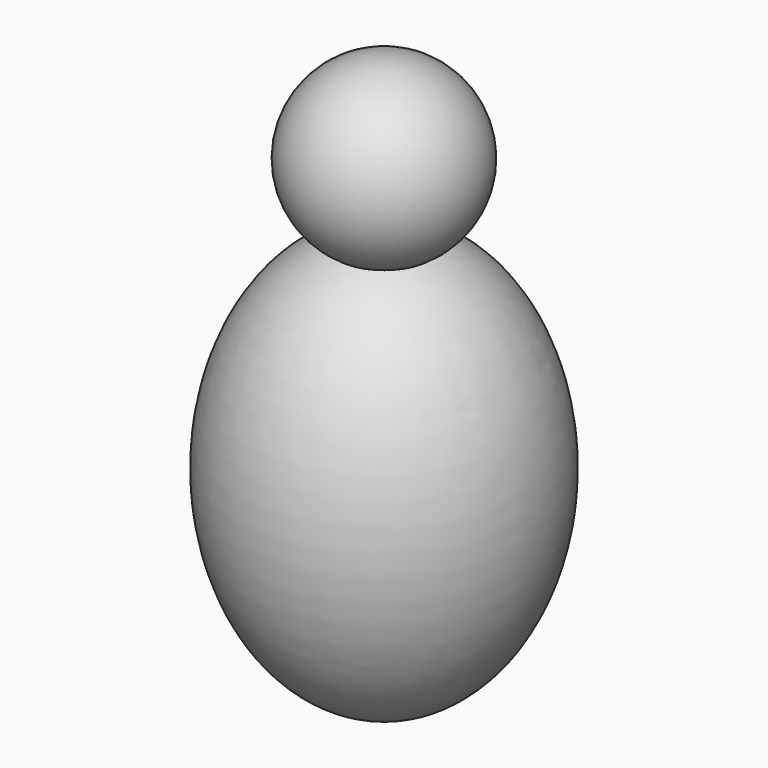
from build123d import *


with BuildPart() as f1:
    # F0 (on Front) → F1 (revolve)
    with BuildSketch(Plane.XZ):
        with BuildLine():
            Line((0, 36.1817493667), (0, 70.5716893445))
            ThreePointArc((0, 70.5716893445), (-17.1949699889, 53.3767193556), (0, 36.1817493667))
        make_face()
    revolve(axis=Axis((0, 0, 53.3767193556), (0, 0, -1)))

    # F2 (on Front) → F3 (revolve)
    with BuildSketch(Plane.XZ):
        with BuildLine():
            Line((0, 40.9995093942), (0, -40.9995093942))
            add(Edge.make_bspline(
                [(0, -40.9995093942), (29.6417953135, -40.9995093942), (29.6417953135, 0), (29.6417953135, 40.9995093942), (0, 40.9995093942)],
                knots=[3.1415926536, 3.1415926536, 3.1415926536, 4.7123889804, 4.7123889804, 6.2831853072, 6.2831853072, 6.2831853072], degree=2, weights=[1, 0.7071067812, 1, 0.7071067812, 1]))
        make_face()
    revolve(axis=Axis((0, 0, 0), (0, 0, -1)))


solid = f1.part
